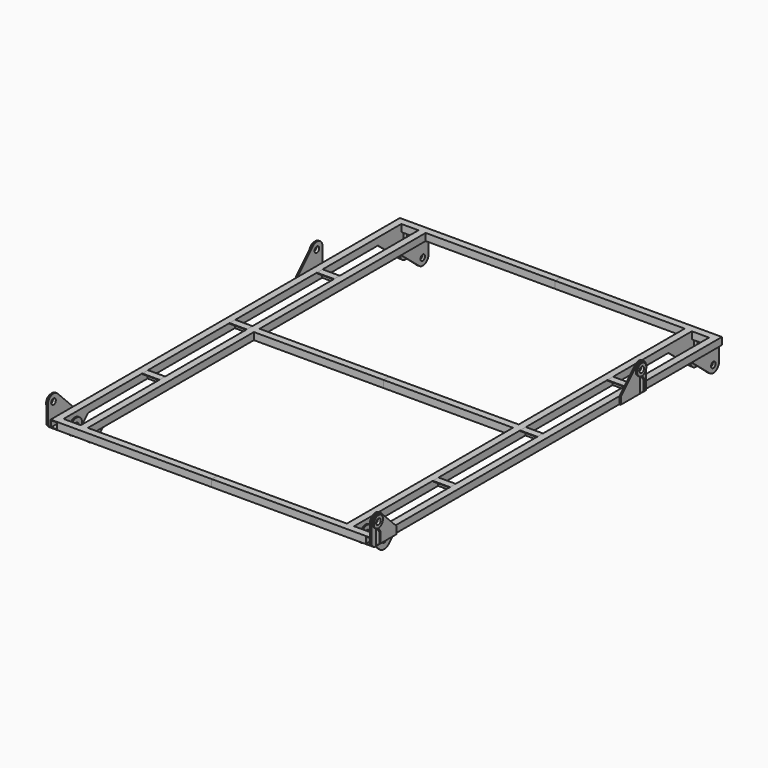
from build123d import *

# Parameters (mm, degrees)
F6_W      = 50
F6_H      = 50
F6_W_2    = 42
F6_H_2    = 42
F7_DEPTH  = 3050
F8_W      = 50
F8_H      = 50
F8_W_2    = 42
F8_H_2    = 42
F9_DEPTH  = 1075
F11_W     = 50
F11_H     = 50
F11_W_2   = 42
F11_H_2   = 42
F12_DEPTH = 1475
F13_W     = 50
F13_H     = 50
F13_W_2   = 42
F13_H_2   = 42
F14_DEPTH = 905
F16_R     = 20
F17_DEPTH = 10
F18_R     = 20
F18_W     = 220.7106781187
F18_H     = 50
F19_DEPTH = 10
F21_R     = 20
F22_DEPTH = 10
F23_R     = 20
F24_DEPTH = 10
F26_R     = 20
F27_DEPTH = 10
F29_R     = 40
F29_R_2   = 20
F30_DEPTH = 10
F31_R     = 50
F31_R_2   = 20
F32_DEPTH = 10
F33_R     = 50
F33_R_2   = 20
F34_DEPTH = 10
F37_DEPTH = 10
F40_DEPTH = 5
F43_DEPTH = 5
F46_DEPTH = 120


with BuildPart() as f7:
    # F6 (on plane+point) → F7 (new body, through all)
    with BuildSketch(Plane.XZ.offset(3050)):
        with Locations((-1100, 0)):
            Rectangle(F6_W, F6_H)
        with Locations((-1100, 0)):
            Rectangle(F6_W_2, F6_H_2, mode=Mode.SUBTRACT)
    extrude(amount=-F7_DEPTH)

    # F8 (on Right) → F9 (join, through all)
    with BuildSketch(Plane.YZ):
        with Locations((-3025, 0)):
            Rectangle(F8_W, F8_H)
        with Locations((-3025, 0)):
            Rectangle(F8_W_2, F8_H_2, mode=Mode.SUBTRACT)
        with Locations((-25, 0)):
            Rectangle(F8_W, F8_H)
        with Locations((-25, 0)):
            Rectangle(F8_W_2, F8_H_2, mode=Mode.SUBTRACT)
    extrude(amount=-F9_DEPTH)

    # F11 (on plane+point) → F12 (join, symmetric)
    with BuildSketch(Plane.XZ.offset(1525)):
        with Locations((-930, 0)):
            Rectangle(F11_W, F11_H)
        with Locations((-930, 0)):
            Rectangle(F11_W_2, F11_H_2, mode=Mode.SUBTRACT)
    extrude(amount=F12_DEPTH, both=True)

    # F13 (on Right) → F14 (join, through all)
    with BuildSketch(Plane.YZ):
        with Locations((-1525, 0)):
            Rectangle(F13_W, F13_H)
        with Locations((-1525, 0)):
            Rectangle(F13_W_2, F13_H_2, mode=Mode.SUBTRACT)
    extrude(amount=-F14_DEPTH)

    # F16 (on offset) → F17 (join)
    with BuildSketch(Plane.YZ.offset(-1125)):
        with BuildLine():
            Line((-2854.2893218813, 25), (-2989.6446609407, 160.3553390593))
            ThreePointArc((-2989.6446609407, 160.3553390593), (-3044.1341716183, 171.1939766256), (-3075, 125))
            Line((-3075, 125), (-3075, 0))
            Line((-3075, 0), (-3050, -25))
            Line((-3050, -25), (-2854.2893218813, -25))
            Line((-2854.2893218813, -25), (-2854.2893218813, 25))
        make_face()
        with Locations((-3025, 125)):
            Circle(F16_R, mode=Mode.SUBTRACT)
    extrude(amount=-F17_DEPTH)

    # F18 (on offset) → F19 (join)
    with BuildSketch(Plane.YZ.offset(-1125)):
        with BuildLine():
            ThreePointArc((-675, 125), (-678.8060233744, 144.1341716183), (-689.6446609407, 160.3553390593))
            ThreePointArc((-689.6446609407, 160.3553390593), (-725, 175), (-760.3553390593, 160.3553390593))
            Line((-760.3553390593, 160.3553390593), (-895.7106781187, 25))
            Line((-895.7106781187, 25), (-675, 25))
            Line((-675, 25), (-675, 125))
        make_face()
        with Locations((-725, 125)):
            Circle(F18_R, mode=Mode.SUBTRACT)
        with Locations((-785.3553390593, 0)):
            Rectangle(F18_W, F18_H)
    extrude(amount=-F19_DEPTH)

    # F21 (on offset) → F22 (join)
    with BuildSketch(Plane.YZ.offset(-1075)):
        with BuildLine():
            Line((-253.5740435123, -25), (-56.9638407575, -188.4488346251))
            ThreePointArc((-56.9638407575, -188.4488346251), (-3.7655002164, -195.2669417891), (25, -150))
            Line((25, -150), (25, 0))
            Line((25, 0), (0, 25))
            Line((0, 25), (0, -25))
            Line((0, -25), (-253.5740435123, -25))
        make_face()
        with Locations((-25, -150)):
            Circle(F21_R, mode=Mode.SUBTRACT)
    extrude(amount=-F22_DEPTH)

    # F23 (on offset) → F24 (join)
    with BuildSketch(Plane.YZ.offset(-1075)):
        with BuildLine():
            Line((-3014.8528137424, -25), (-2942.4264068712, -97.4264068712))
            ThreePointArc((-2942.4264068712, -97.4264068712), (-2900, -115), (-2857.5735931288, -97.4264068712))
            Line((-2857.5735931288, -97.4264068712), (-2785.1471862576, -25))
            Line((-2785.1471862576, -25), (-3000, -25))
            Line((-3000, -25), (-3014.8528137424, -25))
        make_face()
        with Locations((-2900, -55)):
            Circle(F23_R, mode=Mode.SUBTRACT)
    extrude(amount=-F24_DEPTH)

    # F26 (on offset) → F27 (join)
    with BuildSketch(Plane.YZ.offset(-955)):
        with BuildLine():
            Line((-253.5740435123, -25), (-56.9638407575, -188.4488346251))
            ThreePointArc((-56.9638407575, -188.4488346251), (-3.7655002164, -195.2669417891), (25, -150))
            Line((25, -150), (25, 0))
            Line((25, 0), (0, 25))
            Line((0, 25), (0, -25))
            Line((0, -25), (-253.5740435123, -25))
        make_face()
        with Locations((-25, -150)):
            Circle(F26_R, mode=Mode.SUBTRACT)
        with BuildLine():
            ThreePointArc((-2942.4264068712, -97.4264068712), (-2900, -115), (-2857.5735931288, -97.4264068712))
            Line((-2857.5735931288, -97.4264068712), (-2785.1471862576, -25))
            Line((-2785.1471862576, -25), (-3014.8528137424, -25))
            Line((-3014.8528137424, -25), (-2942.4264068712, -97.4264068712))
        make_face()
        with Locations((-2900, -55)):
            Circle(F26_R, mode=Mode.SUBTRACT)
    extrude(amount=F27_DEPTH)

    # F29 (on offset) → F30 (join)
    with BuildSketch(Plane.YZ.offset(-1135)):
        with Locations((-725, 125)):
            Circle(F29_R)
        with Locations((-725, 125)):
            Circle(F29_R_2, mode=Mode.SUBTRACT)
        with Locations((-3025, 125)):
            Circle(F29_R)
        with Locations((-3025, 125)):
            Circle(F29_R_2, mode=Mode.SUBTRACT)
    extrude(amount=-F30_DEPTH)

    # F31 (on offset) → F32 (join)
    with BuildSketch(Plane.YZ.offset(-1075)):
        with Locations((-2900, -55)):
            Circle(F31_R)
        with Locations((-2900, -55)):
            Circle(F31_R_2, mode=Mode.SUBTRACT)
        with Locations((-25, -150)):
            Circle(F31_R)
        with Locations((-25, -150)):
            Circle(F31_R_2, mode=Mode.SUBTRACT)
    extrude(amount=F32_DEPTH)

    # F33 (on offset) → F34 (join)
    with BuildSketch(Plane.YZ.offset(-955)):
        with Locations((-2900, -55)):
            Circle(F33_R)
        with Locations((-2900, -55)):
            Circle(F33_R_2, mode=Mode.SUBTRACT)
        with Locations((-25, -150)):
            Circle(F33_R)
        with Locations((-25, -150)):
            Circle(F33_R_2, mode=Mode.SUBTRACT)
    extrude(amount=-F34_DEPTH)

    # F36 (on offset) → F37 (join)
    with BuildSketch(Plane.XZ.offset(3025)):
        Polygon((-1160, 0), (-1135, -25), (-1135, 84.9), (-1144.9972484631, 84.9), (-1160, 69.8972484631), align=None)
    extrude(amount=F37_DEPTH)

    # F39 (on offset) → F40 (join, symmetric)
    with BuildSketch(Plane.XZ.offset(725)):
        Polygon((-1144.9972484631, 84.9), (-1160, 69.8972484631), (-1160, 0), (-1135, -25), (-1135, 84.9), align=None)
    extrude(amount=F40_DEPTH, both=True)

    # F42 (on offset) → F43 (join, symmetric)
    with BuildSketch(Plane.XZ.offset(25)):
        Polygon((-965.1, -109.9), (-955, -109.9), (-955, -25), (-980, -25), (-980, -95), align=None)
        Polygon((-1075, -25), (-1075, -109.9), (-1064.9, -109.9), (-1050, -95), (-1050, -25), align=None)
    extrude(amount=F43_DEPTH, both=True)

    # F45 (on offset) → F46 (join, through all)
    with BuildSketch(Plane.YZ.offset(-955)):
        Polygon((-2262.5, 25), (-2312.5, 25), (-2312.5, 21), (-2266.5, 21), (-2266.5, -25), (-2262.5, -25), align=None)
        Polygon((-1500, 25), (-1550, 25), (-1550, 21), (-1504, 21), (-1504, -25), (-1500, -25), align=None)
        Polygon((-737.5, 25), (-787.5, 25), (-787.5, 21), (-741.5, 21), (-741.5, -25), (-737.5, -25), align=None)
    extrude(amount=-F46_DEPTH)

    # F47: F7 across plane


with BuildPart() as f7_1:
    add(f7.part)
    add(f7.part.mirror(Plane.YZ))


solid = f7_1.part
